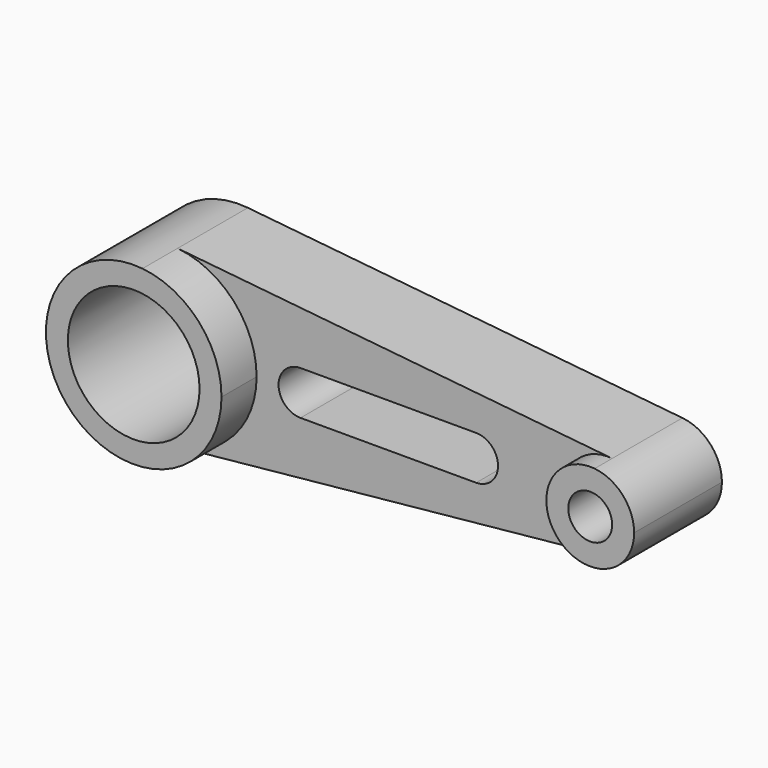
from build123d import *

# Parameters (mm, degrees)
F0_R     = 19.05
F1_DEPTH = 38.1
F2_DEPTH = 25.4
F0_R_2   = 6.35
F3_DEPTH = 31.75


with BuildPart() as f1:
    # F0 (on Front) → F1 (new body)
    with BuildSketch(Plane.XZ):
        with BuildLine():
            ThreePointArc((-35.56, -25.272681), (-19.262856, -17.038838), (-12.7, 0))
            ThreePointArc((-12.7, 0), (-19.262856, 17.038838), (-35.56, 25.272681))
            ThreePointArc((-35.56, 25.272681), (-63.5, 0), (-35.56, -25.272681))
        make_face()
        with Locations((-38.1, 0)):
            Circle(F0_R, mode=Mode.SUBTRACT)
    extrude(amount=F1_DEPTH)

    # F0 (on Front) → F2 (join)
    with BuildSketch(Plane.XZ):
        with BuildLine():
            ThreePointArc((-35.56, 25.272681), (-19.262856, 17.038838), (-12.7, 0))
            ThreePointArc((-12.7, 0), (-19.262856, -17.038838), (-35.56, -25.272681))
            Line((-35.56, -25.272681), (90.17, -12.63634))
            ThreePointArc((90.17, -12.63634), (76.2, 0), (90.17, 12.63634))
            Line((90.17, 12.63634), (-35.56, 25.272681))
        make_face()
        with BuildLine():
            ThreePointArc((0, -6.35), (-6.35, 0), (0, 6.35))
            Line((0, 6.35), (50.8, 6.35))
            ThreePointArc((50.8, 6.35), (57.15, 0), (50.8, -6.35))
            Line((50.8, -6.35), (0, -6.35))
        make_face(mode=Mode.SUBTRACT)
    extrude(amount=F2_DEPTH)

    # F0 (on Front) → F3 (join)
    with BuildSketch(Plane.XZ):
        with BuildLine():
            ThreePointArc((101.6, 0), (98.318572, 8.519419), (90.17, 12.63634))
            ThreePointArc((90.17, 12.63634), (76.2, 0), (90.17, -12.63634))
            ThreePointArc((90.17, -12.63634), (98.318572, -8.519419), (101.6, 0))
        make_face()
        with Locations((88.9, 0)):
            Circle(F0_R_2, mode=Mode.SUBTRACT)
    extrude(amount=F3_DEPTH)


solid = f1.part
